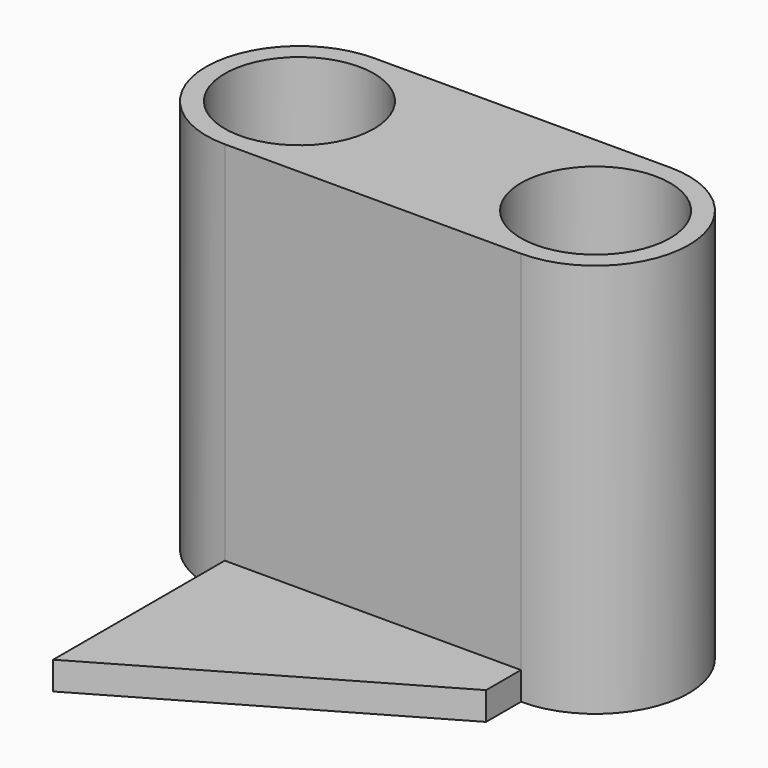
from build123d import *

# Parameters (mm, degrees)
F0_R     = 8
F1_DEPTH = 42.3
F2_W     = 31.75
F2_H     = 23
F3_DEPTH = 3
F5_DEPTH = 25


with BuildPart() as f1:
    # F0 (on Top) → F1 (new body)
    with BuildSketch(Plane.XY):
        with BuildLine():
            Line((-15.875, -10), (15.875, -10))
            ThreePointArc((15.875, -10), (25.875, 0), (15.875, 10))
            Line((15.875, 10), (-15.875, 10))
            ThreePointArc((-15.875, 10), (-25.875, 0), (-15.875, -10))
        make_face()
        with Locations((-15.875, 0)):
            Circle(F0_R, mode=Mode.SUBTRACT)
        with Locations((15.875, 0)):
            Circle(F0_R, mode=Mode.SUBTRACT)
    extrude(amount=F1_DEPTH)

    # F2 (on Top) → F3 (join)
    with BuildSketch(Plane.XY):
        with Locations((0, -21.5)):
            Rectangle(F2_W, F2_H)
    extrude(amount=F3_DEPTH)

    # F4 (on face) → F5 (cut)
    with BuildSketch(Plane(origin=(0, 0, 0), x_dir=(1, 0, 0), z_dir=(0, 0, -1))):
        Polygon((15.875, 33), (-15.875, 33), (15.875, 14.669129), align=None)
    extrude(amount=-F5_DEPTH, mode=Mode.SUBTRACT)


solid = f1.part
